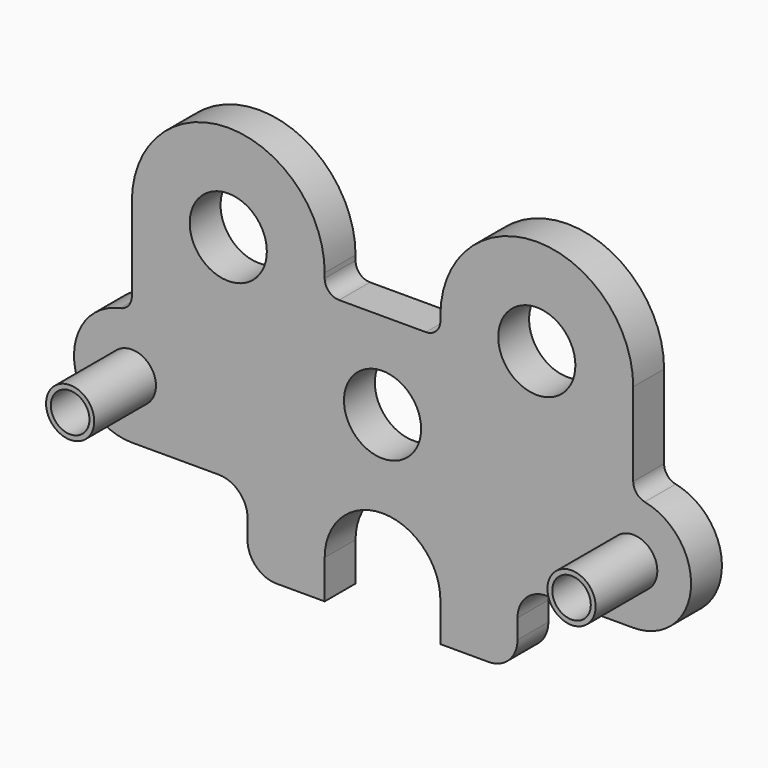
from build123d import *

# Parameters (mm, degrees)
F0_R     = 7.9375
F0_R_2   = 12.7
F0_R_3   = 6.35
F1_DEPTH = 12.7
F2_DEPTH = 25.4


with BuildPart() as f1:
    # F0 (on Front) → F1 (new body)
    with BuildSketch(Plane.XZ):
        with BuildLine():
            Line((14.2875, 28.575), (0, 28.575))
            Line((0, 28.575), (-14.2875, 28.575))
            ThreePointArc((-14.2875, 28.575), (-17.655096, 29.969904), (-19.05, 33.3375))
            Line((-19.05, 33.3375), (-19.05, 34.925))
            ThreePointArc((-19.05, 34.925), (-50.8, 66.675), (-82.55, 34.925))
            Line((-82.55, 34.925), (-82.55, 7.45639))
            ThreePointArc((-82.55, 7.45639), (-83.623483, 4.44432), (-86.36, 2.790112))
            ThreePointArc((-86.36, 2.790112), (-101.503534, -17.789696), (-82.55, -34.925))
            Line((-82.55, -34.925), (-53.975, -34.925))
            ThreePointArc((-53.975, -34.925), (-47.239808, -37.714808), (-44.45, -44.45))
            Line((-44.45, -44.45), (-44.45, -50.8))
            ThreePointArc((-44.45, -50.8), (-41.660192, -57.535192), (-34.925, -60.325))
            Line((-34.925, -60.325), (-19.05, -60.325))
            Line((-19.05, -60.325), (-19.05, -47.625))
            ThreePointArc((-19.05, -47.625), (0, -28.575), (19.05, -47.625))
            Line((19.05, -47.625), (19.05, -60.325))
            Line((19.05, -60.325), (34.925, -60.325))
            ThreePointArc((34.925, -60.325), (41.660192, -57.535192), (44.45, -50.8))
            Line((44.45, -50.8), (44.45, -44.45))
            ThreePointArc((44.45, -44.45), (47.239808, -37.714808), (53.975, -34.925))
            Line((53.975, -34.925), (82.55, -34.925))
            ThreePointArc((82.55, -34.925), (101.503534, -17.789696), (86.36, 2.790112))
            ThreePointArc((86.36, 2.790112), (83.623483, 4.44432), (82.55, 7.45639))
            Line((82.55, 7.45639), (82.55, 34.925))
            ThreePointArc((82.55, 34.925), (50.8, 66.675), (19.05, 34.925))
            Line((19.05, 34.925), (19.05, 33.3375))
            ThreePointArc((19.05, 33.3375), (17.655096, 29.969904), (14.2875, 28.575))
        make_face()
        with Locations((-82.55, -15.875)):
            Circle(F0_R, mode=Mode.SUBTRACT)
        Circle(F0_R_2, mode=Mode.SUBTRACT)
        with Locations((82.55, -15.875)):
            Circle(F0_R, mode=Mode.SUBTRACT)
        with Locations((-50.8, 34.925)):
            Circle(F0_R_2, mode=Mode.SUBTRACT)
        with Locations((50.8, 34.925)):
            Circle(F0_R_2, mode=Mode.SUBTRACT)
        with Locations((82.55, -15.875)):
            Circle(F0_R)
        with Locations((82.55, -15.875)):
            Circle(F0_R_3, mode=Mode.SUBTRACT)
        with Locations((-82.55, -15.875)):
            Circle(F0_R)
        with Locations((-82.55, -15.875)):
            Circle(F0_R_3, mode=Mode.SUBTRACT)
    extrude(amount=-F1_DEPTH)

    # F0 (on Front) → F2 (join)
    with BuildSketch(Plane.XZ):
        with Locations((-82.55, -15.875)):
            Circle(F0_R)
        with Locations((-82.55, -15.875)):
            Circle(F0_R_3, mode=Mode.SUBTRACT)
        with Locations((82.55, -15.875)):
            Circle(F0_R)
        with Locations((82.55, -15.875)):
            Circle(F0_R_3, mode=Mode.SUBTRACT)
    extrude(amount=F2_DEPTH)


solid = f1.part
